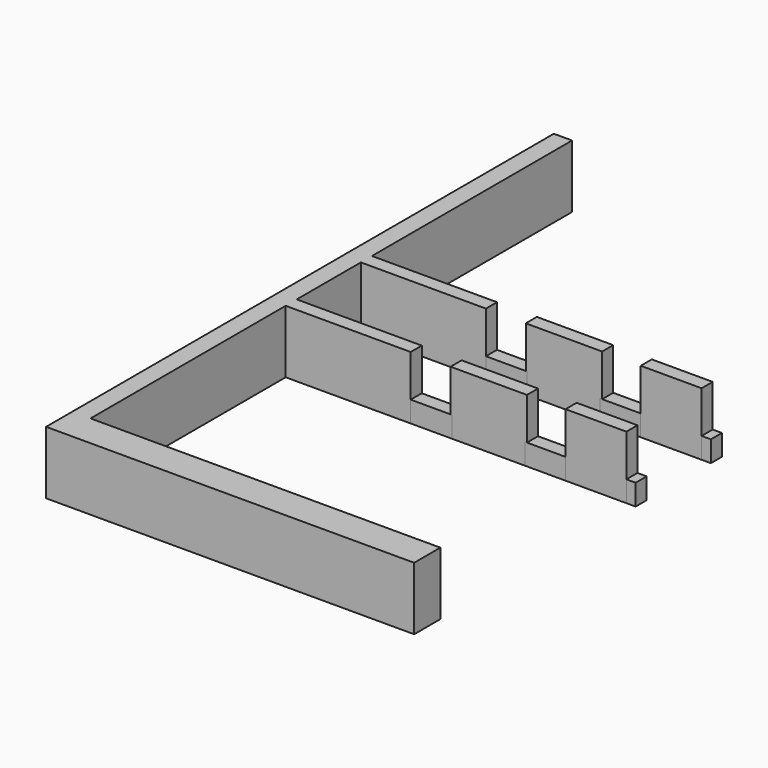
from build123d import *

# Parameters (mm, degrees)
F0_W     = 1.0678321123
F0_H     = 0.8382
F0_W_2   = 7.5681678877
F0_W_3   = 1.1050403118
F0_H_2   = 1.9812
F0_W_4   = 21.1741365492
F1_DEPTH = 3.81
F0_W_5   = 4.6228
F0_W_6   = 3.683
F2_W     = 2.4892
F2_H     = 0.8382
F3_DEPTH = 1.27
F2_W_2   = 2.4638
F2_W_3   = 0.6360414
F2_W_4   = 0.6868414


with BuildPart() as f1:
    # F0 (on Top) → F1 (new body)
    with BuildSketch(Plane.XY):
        Polygon((-77.2205814719, -53.6756315438), (-77.2205814719, -52.8374315438), (-76.1527493596, -52.8374315438), (-76.1527493596, -37.6954264457), (-77.2577896714, -37.6954264457), (-77.2577896714, -74.1296249426), (-76.1527493596, -74.1296249426), (-76.1527493596, -59.3652315438), (-77.2205814719, -59.3652315438), (-77.2205814719, -58.5270315438), (-76.1527493596, -58.5270315438), (-76.1527493596, -53.6756315438), align=None)
        with Locations((-76.6866654158, -53.2565315438)):
            Rectangle(F0_W, F0_H)
        with Locations((-72.3686654158, -53.2565315438)):
            Rectangle(F0_W_2, F0_H)
        with Locations((-76.6866654158, -58.9461315438)):
            Rectangle(F0_W, F0_H)
        with Locations((-72.3686654158, -58.9461315438)):
            Rectangle(F0_W_2, F0_H)
        with Locations((-76.7052695155, -75.1202249426)):
            Rectangle(F0_W_3, F0_H_2)
        with Locations((-65.565681085, -75.1202249426)):
            Rectangle(F0_W_4, F0_H_2)
    extrude(amount=F1_DEPTH)


with BuildPart() as f1b:
    # F0 (on Top) → F1, piece 2 (new body)
    with BuildSketch(Plane.XY):
        with Locations((-63.8601814719, -53.2565399426)):
            Rectangle(F0_W_5, F0_H)
    extrude(amount=F1_DEPTH)


with BuildPart() as f1c:
    # F0 (on Top) → F1, piece 3 (new body)
    with BuildSketch(Plane.XY):
        with Locations((-63.8601814719, -58.9461399426)):
            Rectangle(F0_W_5, F0_H)
    extrude(amount=F1_DEPTH)


with BuildPart() as f1d:
    # F0 (on Top) → F1, piece 4 (new body)
    with BuildSketch(Plane.XY):
        with Locations((-57.3704814719, -58.9461399426)):
            Rectangle(F0_W_6, F0_H)
    extrude(amount=F1_DEPTH)


with BuildPart() as f1e:
    # F0 (on Top) → F1, piece 5 (new body)
    with BuildSketch(Plane.XY):
        with Locations((-57.3704814719, -53.2565399426)):
            Rectangle(F0_W_6, F0_H)
    extrude(amount=F1_DEPTH)


with BuildPart() as f3:
    # F2 (on Top) → F3 (new body)
    with BuildSketch(Plane.XY):
        with Locations((-67.3399213506, -53.2567635043)):
            Rectangle(F2_W, F2_H)
    extrude(amount=F3_DEPTH)


with BuildPart() as f3b:
    # F2 (on Top) → F3, piece 2 (new body)
    with BuildSketch(Plane.XY):
        with Locations((-67.3401231768, -58.9462073794)):
            Rectangle(F2_W, F2_H)
    extrude(amount=F3_DEPTH)


with BuildPart() as f3c:
    # F2 (on Top) → F3, piece 3 (new body)
    with BuildSketch(Plane.XY):
        with Locations((-60.443864683, -53.2565605531)):
            Rectangle(F2_W_2, F2_H)
    extrude(amount=F3_DEPTH)


with BuildPart() as f3d:
    # F2 (on Top) → F3, piece 4 (new body)
    with BuildSketch(Plane.XY):
        with Locations((-60.4438327164, -58.9462131149)):
            Rectangle(F2_W_2, F2_H)
    extrude(amount=F3_DEPTH)


with BuildPart() as f3e:
    # F2 (on Top) → F3, piece 5 (new body)
    with BuildSketch(Plane.XY):
        with Locations((-55.2871607719, -53.2564221691)):
            Rectangle(F2_W_3, F2_H)
    extrude(amount=F3_DEPTH)


with BuildPart() as f3f:
    # F2 (on Top) → F3, piece 6 (new body)
    with BuildSketch(Plane.XY):
        with Locations((-55.3125607719, -58.9460662609)):
            Rectangle(F2_W_4, F2_H)
    extrude(amount=F3_DEPTH)


solid = Compound([f1.part, f1b.part, f1c.part, f1d.part, f1e.part, f3.part, f3b.part, f3c.part, f3d.part, f3e.part, f3f.part])
